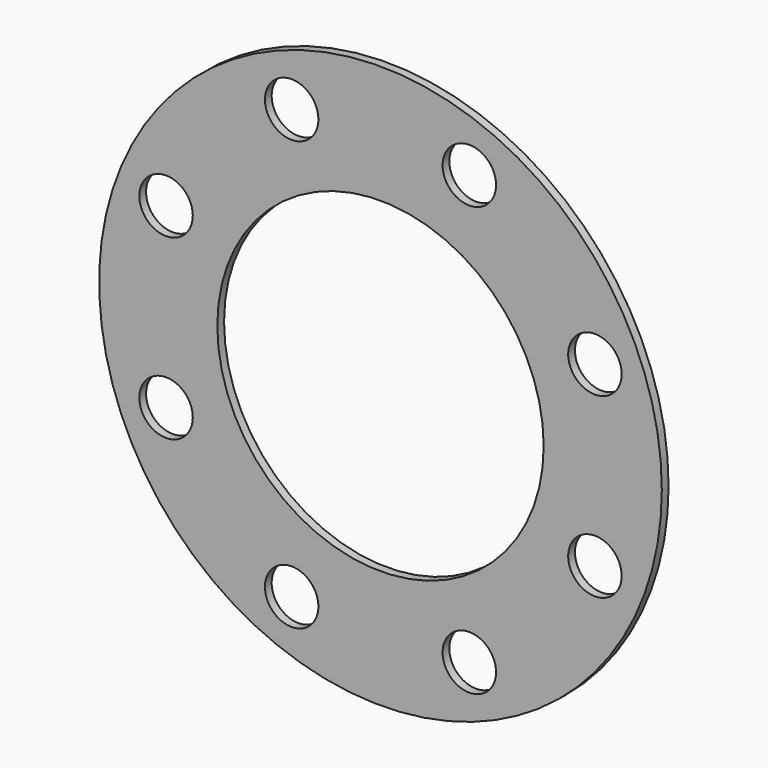
from build123d import *

# Parameters (mm, degrees)
F0_R     = 100
F0_R_2   = 9.5
F0_R_3   = 58
F1_DEPTH = 3


with BuildPart() as f1:
    # F0 (on Front) → F1 (new body)
    with BuildSketch(Plane.XZ):
        Circle(F0_R)
        with Locations((-31.571383, -76.220061)):
            Circle(F0_R_2, mode=Mode.SUBTRACT)
        with Locations((-76.220061, -31.571383)):
            Circle(F0_R_2, mode=Mode.SUBTRACT)
        with Locations((31.571383, -76.220061)):
            Circle(F0_R_2, mode=Mode.SUBTRACT)
        with Locations((76.220061, -31.571383)):
            Circle(F0_R_2, mode=Mode.SUBTRACT)
        with Locations((-76.220061, 31.571383)):
            Circle(F0_R_2, mode=Mode.SUBTRACT)
        with Locations((-31.571383, 76.220061)):
            Circle(F0_R_2, mode=Mode.SUBTRACT)
        Circle(F0_R_3, mode=Mode.SUBTRACT)
        with Locations((76.220061, 31.571383)):
            Circle(F0_R_2, mode=Mode.SUBTRACT)
        with Locations((31.571383, 76.220061)):
            Circle(F0_R_2, mode=Mode.SUBTRACT)
    extrude(amount=-F1_DEPTH)


solid = f1.part
